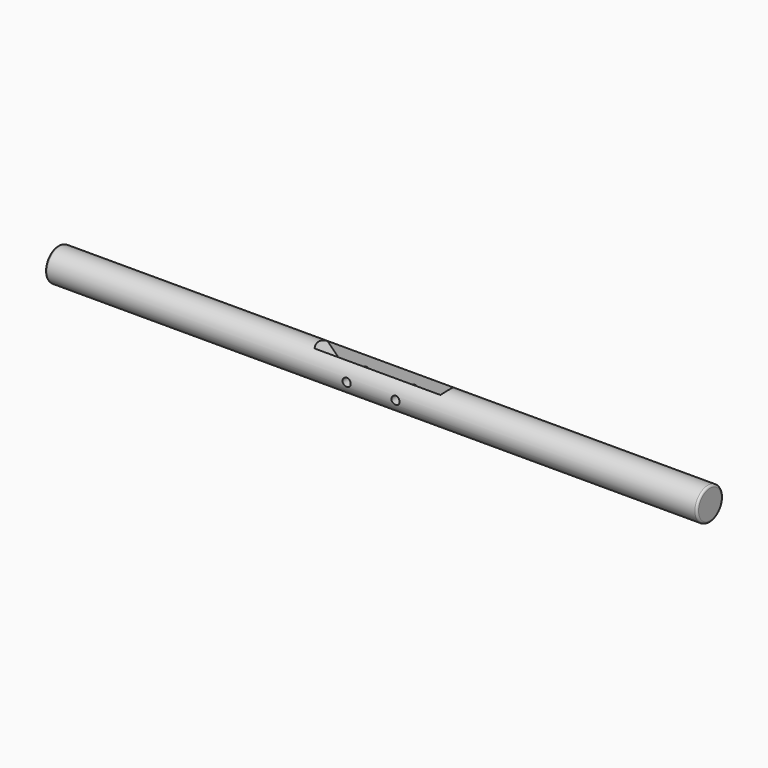
from build123d import *

# Parameters (mm, degrees)
F7_R      = 6.35
F8_DEPTH  = 254
F10_W     = 25.4
F10_H     = 6.35
F9_W      = 50.8
F9_H      = 6.35
F11_D     = 3.175
F11_DEPTH = 6.3510001
F5_D      = 3.175
F6_R      = 0.79375


with BuildPart() as f8:
    # F7 (on line) → F8 (new body)
    with BuildSketch(Plane(origin=(-127, 0, 0), x_dir=(0, -1, 0), z_dir=(-1, 0, 0))):
        with Locations((0, -6.35)):
            Circle(F7_R)
    extrude(amount=-F8_DEPTH)

    # F10 (on line) → F4 section 0
    with BuildSketch(Plane.XY.offset(-12.7)):
        Rectangle(F10_W, F10_H)
    # F9 (on line) → F4 section 1
    with BuildSketch(Plane.XY):
        Rectangle(F9_W, F9_H)
    loft(mode=Mode.SUBTRACT)

    # F11 (through all, one way)
    with BuildSketch(Plane.XZ):
        with Locations((-9.525, -6.35), (9.525, -6.35)):
            Circle(F11_D / 2)
    extrude(amount=-F11_DEPTH, mode=Mode.SUBTRACT)

    # F5 (through all)
    with Locations(Plane(origin=(0, 0, 0), x_dir=(1, 0, 0), z_dir=(0, 1, 0))):
        with Locations((-9.525, 6.35), (9.525, 6.35)):
            Hole(F5_D / 2)

    # F6
    f6_edges = [f8.edges().sort_by_distance(p)[0] for p in [
        (127, 6.35, -6.35),
        (-127, 6.35, -6.35),
    ]]
    fillet(f6_edges, radius=F6_R)


solid = f8.part
